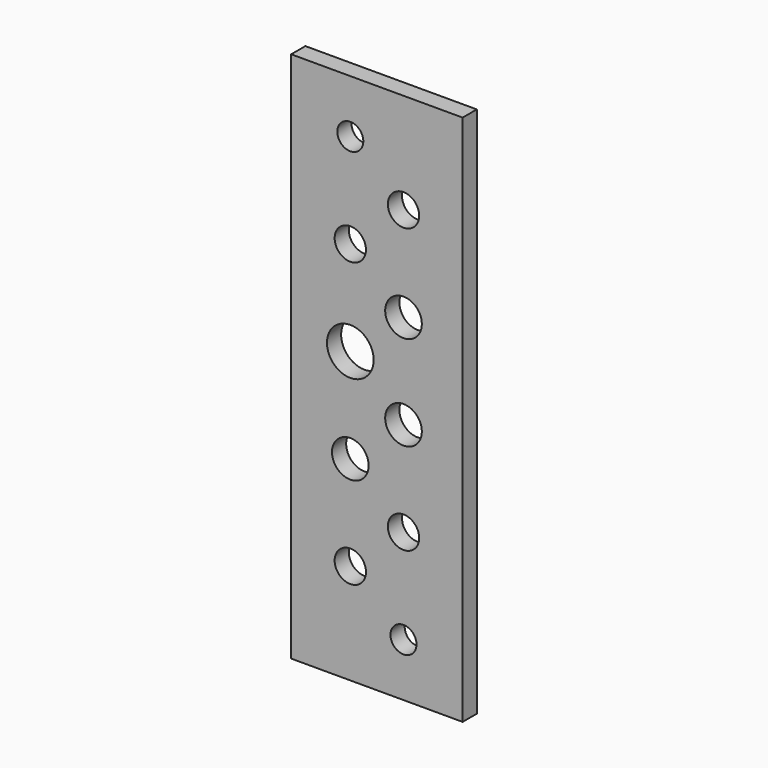
from build123d import *

# Parameters (mm, degrees)
F0_W     = 29
F0_H     = 90
F0_R     = 2.65
F0_R_2   = 3.1
F0_R_3   = 2.2
F0_R_4   = 3.95
F1_DEPTH = 3


with BuildPart() as f1:
    # F0 (on Front) → F1 (new body)
    with BuildSketch(Plane.XZ):
        with Locations((14.5, 45)):
            Rectangle(F0_W, F0_H)
        with Locations((10, 17)):
            Circle(F0_R, mode=Mode.SUBTRACT)
        with Locations((10, 33)):
            Circle(F0_R_2, mode=Mode.SUBTRACT)
        with Locations((19, 9)):
            Circle(F0_R_3, mode=Mode.SUBTRACT)
        with Locations((19, 25)):
            Circle(F0_R, mode=Mode.SUBTRACT)
        with Locations((19, 41)):
            Circle(F0_R_2, mode=Mode.SUBTRACT)
        with Locations((10, 49)):
            Circle(F0_R_4, mode=Mode.SUBTRACT)
        with Locations((10, 65)):
            Circle(F0_R, mode=Mode.SUBTRACT)
        with Locations((10, 81)):
            Circle(F0_R_3, mode=Mode.SUBTRACT)
        with Locations((19, 57)):
            Circle(F0_R_2, mode=Mode.SUBTRACT)
        with Locations((19, 73)):
            Circle(F0_R, mode=Mode.SUBTRACT)
    extrude(amount=-F1_DEPTH)


solid = f1.part
